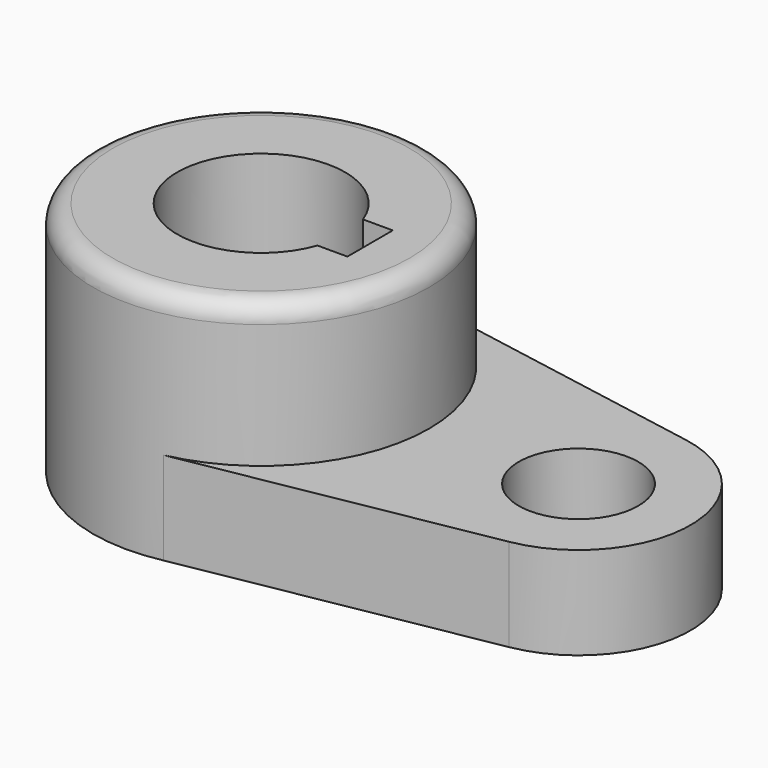
from build123d import *

# Parameters (mm, degrees)
F0_R     = 28.575
F1_DEPTH = 40.2336
F2_R     = 3.302
F3_R     = 10.16
F4_DEPTH = 15.7734


with BuildPart() as f1:
    # F0 (on Top) → F1 (new body)
    with BuildSketch(Plane.XY):
        Circle(F0_R)
        with BuildLine():
            ThreePointArc((13.4477648793, -4.826), (-14.2875, 0), (13.4477648793, 4.826))
            Line((13.4477648793, 4.826), (18.5293, 4.826))
            Line((18.5293, 4.826), (18.5293, -4.826))
            Line((18.5293, -4.826), (13.4477648793, -4.826))
        make_face(mode=Mode.SUBTRACT)
    extrude(amount=F1_DEPTH)

    # F2
    f2_edges = [f1.edges().sort_by_distance(p)[0] for p in [
        (-28.575, 0, 40.2336),
    ]]
    fillet(f2_edges, radius=F2_R)

    # F3 (on face) → F4 (join)
    with BuildSketch(Plane(origin=(0, 0, 0), x_dir=(1, 0, 0), z_dir=(0, 0, -1))):
        with BuildLine():
            Line((5.7964106128, -27.9809265216), (57.1919272622, -18.7764181619))
            ThreePointArc((57.1919272622, -18.7764181619), (73.025, 0), (57.1919272622, 18.7764181619))
            Line((57.1919272622, 18.7764181619), (5.7964106128, 27.9809265216))
            ThreePointArc((5.7964106128, 27.9809265216), (22.1603594089, 18.0402077557), (28.575, 0))
            ThreePointArc((28.575, 0), (22.1603594089, -18.0402077557), (5.7964106128, -27.9809265216))
        make_face()
        with Locations((53.975, 0)):
            Circle(F3_R, mode=Mode.SUBTRACT)
    extrude(amount=-F4_DEPTH)


solid = f1.part
